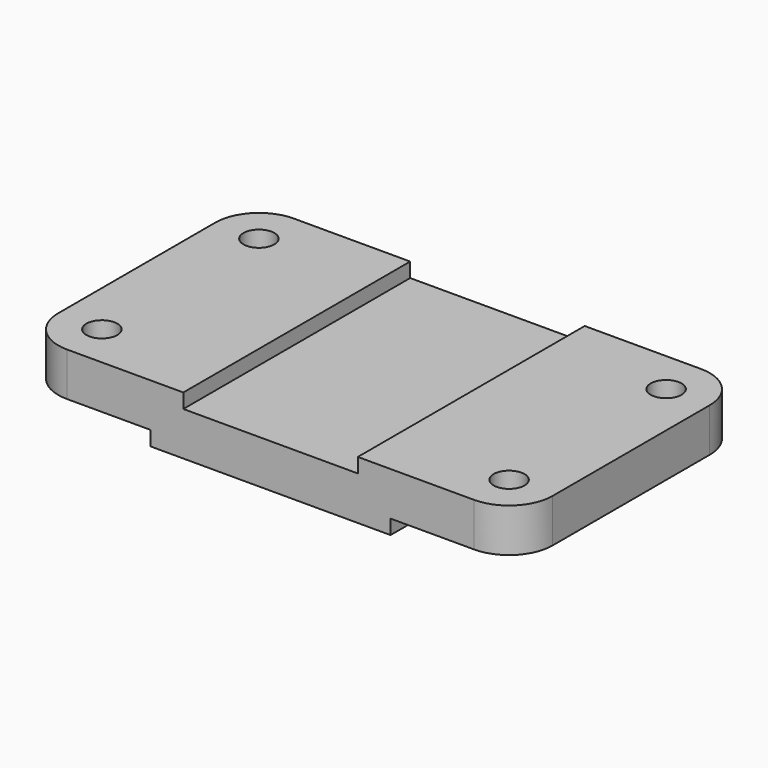
from build123d import *

# Parameters (mm, degrees)
F1_DEPTH = 78
F2_R     = 12
F4_D     = 8.5


with BuildPart() as f1:
    # F0 (on Front) → F1 (new body)
    with BuildSketch(Plane.XZ):
        Polygon((-33, 4), (-33, 0), (33, 0), (33, 4), (68, 4), (68, 16), (24, 16), (24, 12), (-24, 12), (-24, 16), (-68, 16), (-68, 4), align=None)
    extrude(amount=F1_DEPTH)

    # F2
    f2_edges = [f1.edges().sort_by_distance(p)[0] for p in [
        (-68, -78, 10),
        (68, -78, 10),
        (68, 0, 10),
        (-68, 0, 10),
    ]]
    fillet(f2_edges, radius=F2_R)

    # F4 (through all)
    with Locations(Plane.XY.offset(16)):
        with Locations((-56, -66), (-56, -12), (56, -66), (56, -12)):
            Hole(F4_D / 2)


solid = f1.part
